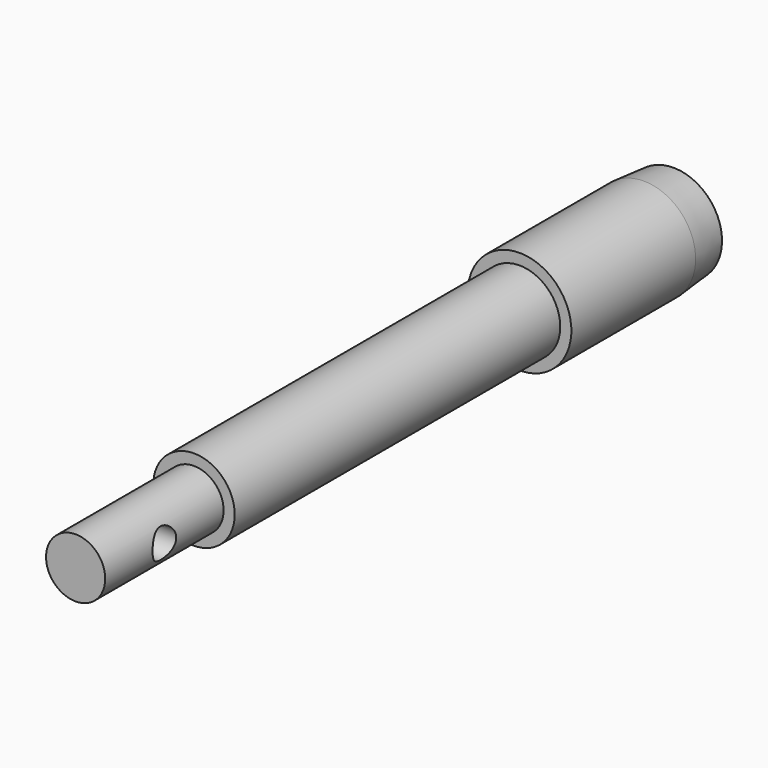
from build123d import *

# Parameters (mm, degrees)
F0_R     = 5.5
F1_DEPTH = 75
F2_R     = 7
F3_DEPTH = 26
F4_SIZE2 = 0.437443
F4_SIZE  = 5
F5_R     = 5.5
F5_R_2   = 4
F6_DEPTH = 20
F7_R     = 2
F8_DEPTH = 12.5


with BuildPart() as f1:
    # F0 (on Front) → F1 (new body)
    with BuildSketch(Plane.XZ):
        Circle(F0_R)
    extrude(amount=F1_DEPTH)

    # F2 (on face) → F3 (join)
    with BuildSketch(Plane(origin=(0, 0, 0), x_dir=(-1, 0, 0), z_dir=(0, 1, 0))):
        Circle(F2_R)
    extrude(amount=F3_DEPTH)

    # F4
    f4_edges = [f1.edges().sort_by_distance(p)[0] for p in [
        (7, 26, 0),
    ]]
    chamfer(f4_edges, length=F4_SIZE, length2=F4_SIZE2)

    # F5 (on face) → F6 (cut)
    with BuildSketch(Plane.XZ.offset(75)):
        Circle(F5_R)
        Circle(F5_R_2, mode=Mode.SUBTRACT)
    extrude(amount=-F6_DEPTH, mode=Mode.SUBTRACT)

    # F7 (on Right) → F8 (cut, symmetric)
    with BuildSketch(Plane.YZ):
        with Locations((-65, 0)):
            Circle(F7_R)
    extrude(amount=F8_DEPTH, both=True, mode=Mode.SUBTRACT)


solid = f1.part
